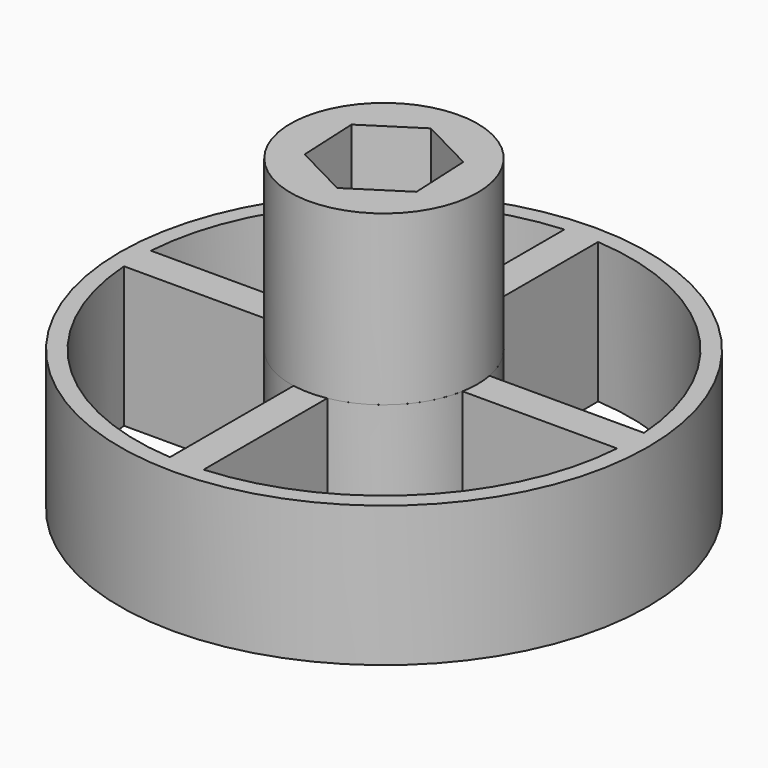
from build123d import *

# Parameters (mm, degrees)
F1_R      = 16.65
F2_DEPTH  = 30
F3_DEPTH  = 31
F4_R      = 7.5
F5_DEPTH  = 25
F6_R      = 47
F7_DEPTH  = 25
F8_DEPTH  = 25
F9_R      = 14.0491695585
F9_R_2    = 7.5
F10_DEPTH = 3


with BuildPart() as f2:
    # F1 (on Top) → F2 (new body)
    with BuildSketch(Plane.XY):
        Circle(F1_R)
    extrude(amount=-F2_DEPTH)

    # F0 (on Top) → F3 (cut)
    with BuildSketch(Plane.XY):
        Polygon((-0.5242376146, 11.0727221099), (-9.8513774435, 5.0823579631), (-9.327139829, -5.9903641468), (0.5242376146, -11.0727221099), (9.8513774435, -5.0823579631), (9.327139829, 5.9903641468), align=None)
    extrude(amount=-F3_DEPTH, mode=Mode.SUBTRACT)

    # F4 (on face) → F5 (cut)
    with BuildSketch(Plane(origin=(0, 0, -30), x_dir=(1, 0, 0), z_dir=(0, 0, -1))):
        Circle(F4_R)
    extrude(amount=-F5_DEPTH, mode=Mode.SUBTRACT)

    # F6 (on face) → F7 (join)
    with BuildSketch(Plane(origin=(0, 0, -30), x_dir=(1, 0, 0), z_dir=(0, 0, -1))):
        Circle(F6_R)
        with BuildLine():
            ThreePointArc((43.8976081353, 3), (43.9743945834, 1.5008734202), (44, 0))
            ThreePointArc((44, 0), (43.9743945834, -1.5008734202), (43.8976081353, -3))
            ThreePointArc((43.8976081353, -3), (31.1126983722, -31.1126983722), (3, -43.8976081353))
            ThreePointArc((3, -43.8976081353), (0, -44), (-3, -43.8976081353))
            ThreePointArc((-3, -43.8976081353), (-31.1126983722, -31.1126983722), (-43.8976081353, -3))
            ThreePointArc((-43.8976081353, -3), (-44, 0), (-43.8976081353, 3))
            ThreePointArc((-43.8976081353, 3), (-31.1126983722, 31.1126983722), (-3, 43.8976081353))
            ThreePointArc((-3, 43.8976081353), (0, 44), (3, 43.8976081353))
            ThreePointArc((3, 43.8976081353), (31.1126983722, 31.1126983722), (43.8976081353, 3))
        make_face(mode=Mode.SUBTRACT)
        with BuildLine():
            ThreePointArc((-3, -43.8976081353), (0, -44), (3, -43.8976081353))
            Line((3, -43.8976081353), (3, -16.3774998092))
            ThreePointArc((3, -16.3774998092), (0, -16.65), (-3, -16.3774998092))
            Line((-3, -16.3774998092), (-3, -43.8976081353))
        make_face()
        with BuildLine():
            ThreePointArc((43.8976081353, -3), (43.9743945834, -1.5008734202), (44, 0))
            ThreePointArc((44, 0), (43.9743945834, 1.5008734202), (43.8976081353, 3))
            Line((43.8976081353, 3), (16.3774998092, 3))
            ThreePointArc((16.3774998092, 3), (16.5817350091, 1.506175318), (16.65, 0))
            ThreePointArc((16.65, 0), (16.5817350091, -1.506175318), (16.3774998092, -3))
            Line((16.3774998092, -3), (43.8976081353, -3))
        make_face()
        with BuildLine():
            Line((-16.3774998092, 3), (-43.8976081353, 3))
            ThreePointArc((-43.8976081353, 3), (-44, 0), (-43.8976081353, -3))
            Line((-43.8976081353, -3), (-16.3774998092, -3))
            ThreePointArc((-16.3774998092, -3), (-16.65, 0), (-16.3774998092, 3))
        make_face()
        with BuildLine():
            Line((3, 16.3774998092), (3, 43.8976081353))
            ThreePointArc((3, 43.8976081353), (0, 44), (-3, 43.8976081353))
            Line((-3, 43.8976081353), (-3, 16.3774998092))
            ThreePointArc((-3, 16.3774998092), (0, 16.65), (3, 16.3774998092))
        make_face()
    extrude(amount=F7_DEPTH)


with BuildPart() as f8:
    # F8 (new): a face of the model
    f8_faces = [f2.part.faces().sort_by_distance(p)[0] for p in [
        (16.1127327183, 1.4635742467, -30),
    ]]
    extrude(f8_faces, amount=F8_DEPTH)

    # F9 (on face) → F10 (join)
    with BuildSketch(Plane(origin=(0, 0, -55), x_dir=(1, 0, 0), z_dir=(0, 0, -1))):
        Circle(F9_R)
        Polygon((0.5242376146, 11.0727221099), (9.8513774435, 5.0823579631), (9.327139829, -5.9903641468), (-0.5242376146, -11.0727221099), (-9.8513774435, -5.0823579631), (-9.327139829, 5.9903641468), align=None, mode=Mode.SUBTRACT)
        Polygon((9.327139829, -5.9903641468), (9.8513774435, 5.0823579631), (0.5242376146, 11.0727221099), (-9.327139829, 5.9903641468), (-9.8513774435, -5.0823579631), (-0.5242376146, -11.0727221099), align=None)
        Circle(F9_R_2, mode=Mode.SUBTRACT)
    extrude(amount=-F10_DEPTH)


solid = Compound([f2.part, f8.part])
